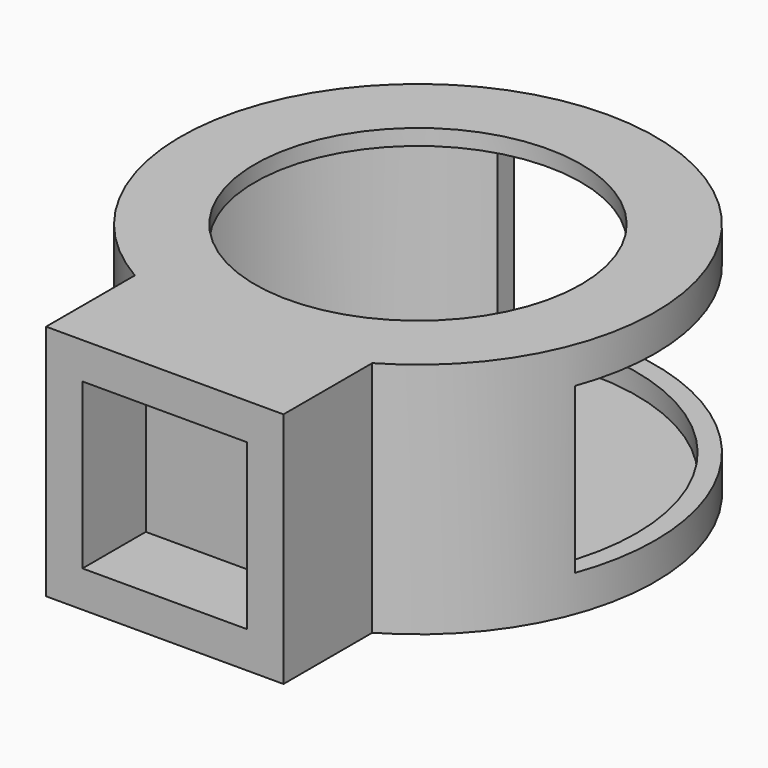
from build123d import *

# Parameters (mm, degrees)
F0_R      = 15
F1_DEPTH  = 15
F2_W      = 15
F2_H      = 15
F3_DEPTH  = 20
F4_W      = 10.4
F4_H      = 10.4
F5_DEPTH  = 5
F7_START  = -1
F6_R      = 13.8
F7_DEPTH  = 13
F8_R      = 10.3
F9_DEPTH  = 2
F11_START = -2.3
F11_DEPTH = 10.4


with BuildPart() as f1:
    # F0 (on Top) → F1 (new body)
    with BuildSketch(Plane.XY):
        Circle(F0_R)
    extrude(amount=F1_DEPTH)

    # F2 (on Front) → F3 (join)
    with BuildSketch(Plane.XZ):
        with Locations((0, 7.5)):
            Rectangle(F2_W, F2_H)
    extrude(amount=F3_DEPTH)

    # F4 (on face) → F5 (cut)
    with BuildSketch(Plane.XZ.offset(20)):
        with Locations((0, 7.5)):
            Rectangle(F4_W, F4_H)
    extrude(amount=-F5_DEPTH, mode=Mode.SUBTRACT)

    # F6 (on face) → F7 (cut)
    with BuildSketch(Plane.XY.offset(15).offset(F7_START)):
        Circle(F6_R)
    extrude(amount=-F7_DEPTH, mode=Mode.SUBTRACT)

    # F8 (on face) → F9 (cut)
    with BuildSketch(Plane.XY.offset(15)):
        Circle(F8_R)
    extrude(amount=-F9_DEPTH, mode=Mode.SUBTRACT)

    # F10 (on face) → F11 (cut)
    with BuildSketch(Plane.XY.offset(15).offset(F11_START)):
        with BuildLine():
            Line((5.2, 8.8910066922), (5.2, 14.0698258696))
            ThreePointArc((5.2, 14.0698258696), (0, 15), (-5.2, 14.0698258696))
            Line((-5.2, 14.0698258696), (-5.2, 8.8910066922))
            ThreePointArc((-5.2, 8.8910066922), (0, 10.3), (5.2, 8.8910066922))
        make_face()
        with BuildLine():
            Line((8.8910066922, 5.2), (14.0698258696, 5.2))
            ThreePointArc((14.0698258696, 5.2), (10.6066017178, 10.6066017178), (5.2, 14.0698258696))
            Line((5.2, 14.0698258696), (5.2, 8.8910066922))
            ThreePointArc((5.2, 8.8910066922), (7.2831998462, 7.2831998462), (8.8910066922, 5.2))
        make_face()
        with BuildLine():
            Line((8.8910066922, -5.2), (14.0698258696, -5.2))
            ThreePointArc((14.0698258696, -5.2), (15, 0), (14.0698258696, 5.2))
            Line((14.0698258696, 5.2), (8.8910066922, 5.2))
            ThreePointArc((8.8910066922, 5.2), (9.9415131879, 2.6937549138), (10.3, 0))
            ThreePointArc((10.3, 0), (9.9415131879, -2.6937549138), (8.8910066922, -5.2))
        make_face()
    extrude(amount=-F11_DEPTH, mode=Mode.SUBTRACT)


solid = f1.part
